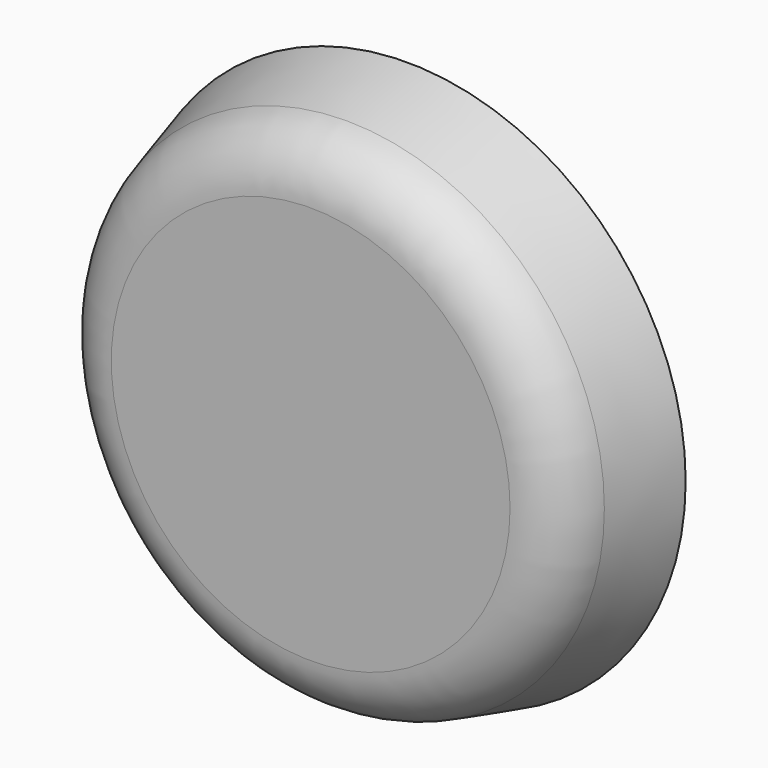
from build123d import *

# Parameters (mm, degrees)
F0_R     = 18.5
F0_R_2   = 15.5
F1_DEPTH = 5
F1_TAPER = 5
F0_R_3   = 23
F2_DEPTH = 10
F2_TAPER = 15
F3_R     = 5
F4_R     = 0.5


with BuildPart() as f1:
    # F0 (on Front) → F1 (new body)
    with BuildSketch(Plane.XZ):
        Circle(F0_R)
        Circle(F0_R_2, mode=Mode.SUBTRACT)
    extrude(amount=-F1_DEPTH, taper=F1_TAPER)

    # F0 (on Front) → F2 (join)
    with BuildSketch(Plane.XZ):
        Circle(F0_R_3)
        Circle(F0_R, mode=Mode.SUBTRACT)
        Circle(F0_R)
        Circle(F0_R_2, mode=Mode.SUBTRACT)
        Circle(F0_R_2)
    extrude(amount=F2_DEPTH, taper=F2_TAPER)

    # F3
    f3_edges = [f1.edges().sort_by_distance(p)[0] for p in [
        (-20.320508, -10, 0),
    ]]
    fillet(f3_edges, radius=F3_R)

    # F4
    f4_edges = [f1.edges().sort_by_distance(p)[0] for p in [
        (-18.062557, 5, 0),
        (-15.937443, 5, 0),
    ]]
    fillet(f4_edges, radius=F4_R)


solid = f1.part
